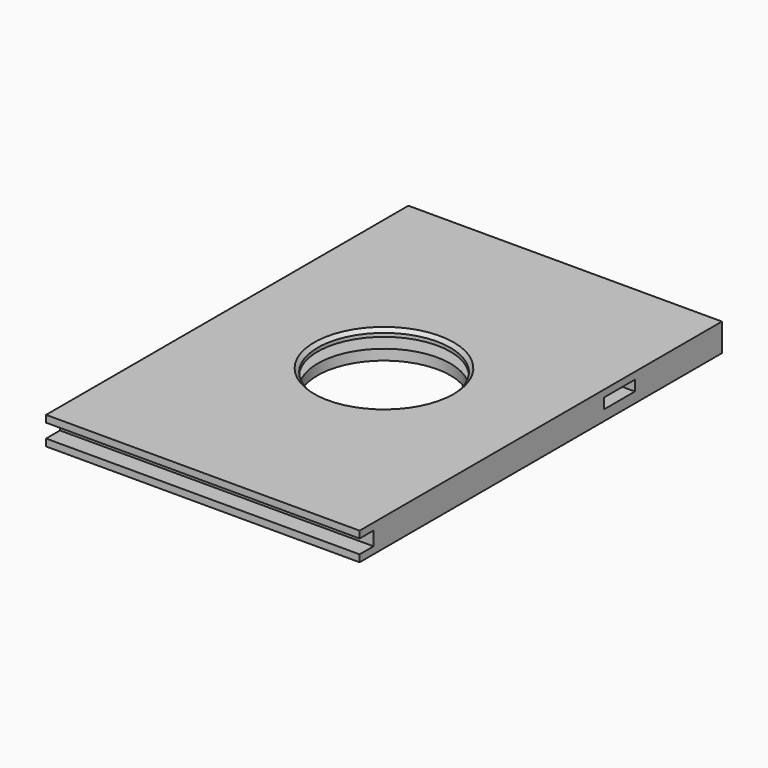
from build123d import *

# Parameters (mm, degrees)
SKETCH_W        = 90
SKETCH_H        = 130
PAD_DEPTH       = 3
PAD007_DEPTH    = 3
PAD006_DEPTH    = 3
SKETCH009_W     = 90
SKETCH009_H     = 130
PAD008_DEPTH    = 2
SKETCH010_R     = 19.0420352847
POCKET_DEPTH    = 10
CHAMFER_SIZE    = 1
SKETCH011_W     = 90
SKETCH011_H     = 4
POCKET001_DEPTH = 5


with BuildPart() as pad007:
    # Sketch → Pad (new body)
    with BuildSketch(Plane.XY):
        with Locations((45, 65)):
            Rectangle(SKETCH_W, SKETCH_H)
    extrude(amount=PAD_DEPTH)

    # Sketch006 → Pad007 (new body)
    with BuildSketch(Plane.XY.offset(3)):
        with BuildLine():
            Line((0, 0), (90, 0))
            Line((90, 0), (90, 31.200001))
            Line((90, 87.7297593266), (90, 31.200001))
            Line((63.384261619, 87.7297593266), (90, 87.7297593266))
            ThreePointArc((73.2419105019, 65.6401585516), (70.414665309, 77.6228043326), (63.384261619, 87.7297593266))
            ThreePointArc((61.470024, 41.9983394519), (70.1525128312, 52.4267750542), (73.2419105019, 65.6401585516))
            Line((61.470024, 31.2), (61.470024, 41.9983394519))
            Line((0, 31.2), (61.470024, 31.2))
            Line((0, 31.2), (0, 0))
        make_face()
    extrude(amount=PAD007_DEPTH)


with BuildPart() as pocket001:
    # Sketch008 → Pad006 (new body)
    with BuildSketch(Plane(origin=(90, 130, 3), x_dir=(-1, 0, 0), z_dir=(0, 0, 1))):
        with BuildLine():
            Line((0, 0), (90, 0))
            Line((90, 0), (90, 31.200001))
            Line((90, 87.7297593266), (90, 31.200001))
            Line((63.384261619, 87.7297593266), (90, 87.7297593266))
            ThreePointArc((73.2419105019, 65.6401585516), (70.414665309, 77.6228043326), (63.384261619, 87.7297593266))
            ThreePointArc((61.470024, 41.9983394519), (70.1525128312, 52.4267750542), (73.2419105019, 65.6401585516))
            Line((61.470024, 31.2), (61.470024, 41.9983394519))
            Line((0, 31.2), (61.470024, 31.2))
            Line((0, 31.2), (0, 0))
        make_face()
    extrude(amount=PAD006_DEPTH)

    # Fusion: union Pad007
    add(pad007.part)

    # Sketch009 → Pad008 (new body)
    with BuildSketch(Plane.XY.offset(6)):
        with Locations((45, 65)):
            Rectangle(SKETCH009_W, SKETCH009_H)
    extrude(amount=PAD008_DEPTH)

    # Sketch010 → Pocket (cut)
    with BuildSketch(Plane.XY.offset(8)):
        with Locations((45, 65)):
            Circle(SKETCH010_R)
    extrude(amount=-POCKET_DEPTH, mode=Mode.SUBTRACT)

    # Chamfer
    chamfer_edges = [pocket001.edges().sort_by_distance(p)[0] for p in [
        (25.957965, 65, 8),
    ]]
    chamfer(chamfer_edges, length=CHAMFER_SIZE)

    # Sketch011 → Pocket001 (cut)
    with BuildSketch(Plane.XZ):
        with Locations((45, 4.0113657125)):
            Rectangle(SKETCH011_W, SKETCH011_H)
    extrude(amount=-POCKET001_DEPTH, mode=Mode.SUBTRACT)


solid = pocket001.part
